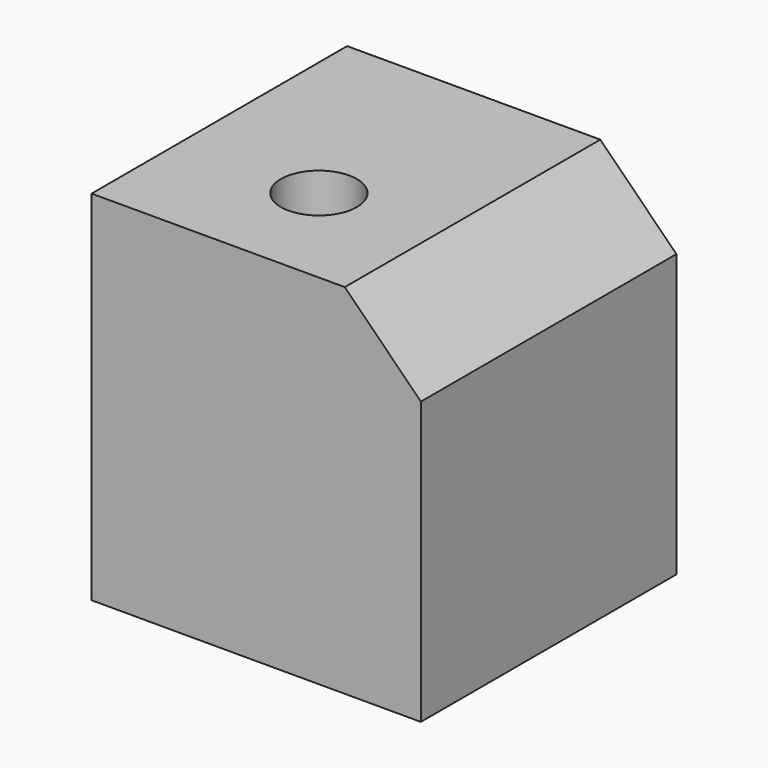
from build123d import *

# Parameters (mm, degrees)
F0_W     = 86.574215
F0_H     = 83.982148
F1_DEPTH = 94.14638
F2_SIZE  = 20
F4_D     = 20


with BuildPart() as f1:
    # F0 (on Top) → F1 (new body)
    with BuildSketch(Plane.XY):
        with Locations((21.449423, 12.660671)):
            Rectangle(F0_W, F0_H)
    extrude(amount=F1_DEPTH)

    # F2
    f2_edges = [f1.edges().sort_by_distance(p)[0] for p in [
        (64.73653, 12.660671, 94.14638),
    ]]
    chamfer(f2_edges, length=F2_SIZE)

    # F4 (through all)
    with Locations(Plane.XY.offset(94.14638)):
        with Locations((14.453897, 0)):
            Hole(F4_D / 2)


solid = f1.part
